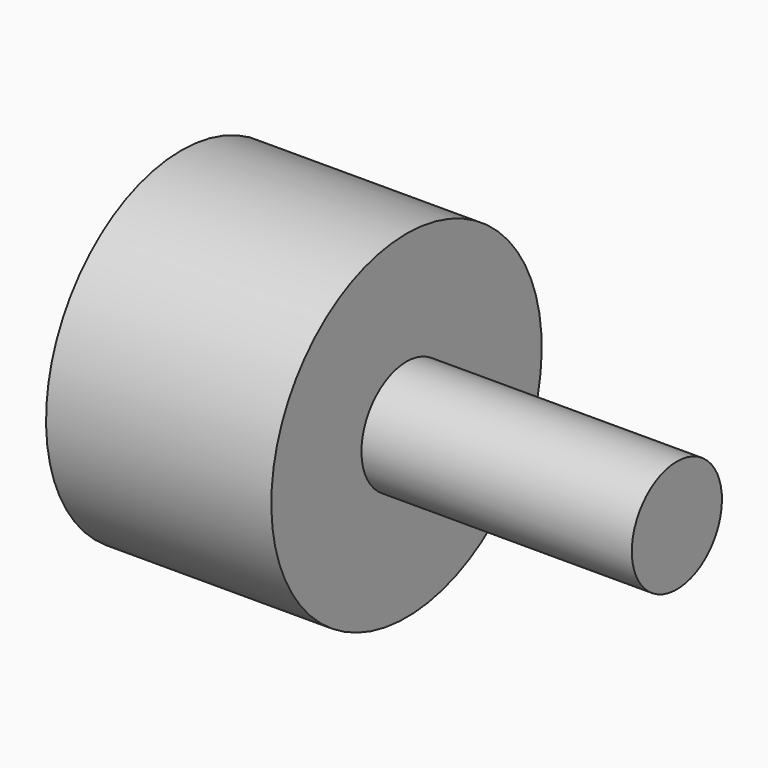
from build123d import *

# Parameters (mm, degrees)
F3_D     = 4.5
F3_DEPTH = 7.4
F3_TIP   = 1.3519363928


with BuildPart() as f1:
    # F0 (on Front) → F1 (revolve)
    with BuildSketch(Plane.XZ):
        Polygon((0, 7.5), (-10, 7.5), (-10, 0), (12, 0), (12, 2.5), (0, 2.5), align=None)
    revolve(axis=Axis((1, 0, 0), (1, 0, 0)))

    # F3
    with Locations(Plane(origin=(-10, 0, 0), x_dir=(0, -1, 0), z_dir=(-1, 0, 0))):
        with Locations((0, 0)):
            Hole(F3_D / 2, depth=F3_DEPTH)
            with Locations((0, 0, -(F3_DEPTH + F3_TIP / 2))):  # 118° drill point
                Cone(0, F3_D / 2, F3_TIP, mode=Mode.SUBTRACT)


solid = f1.part
